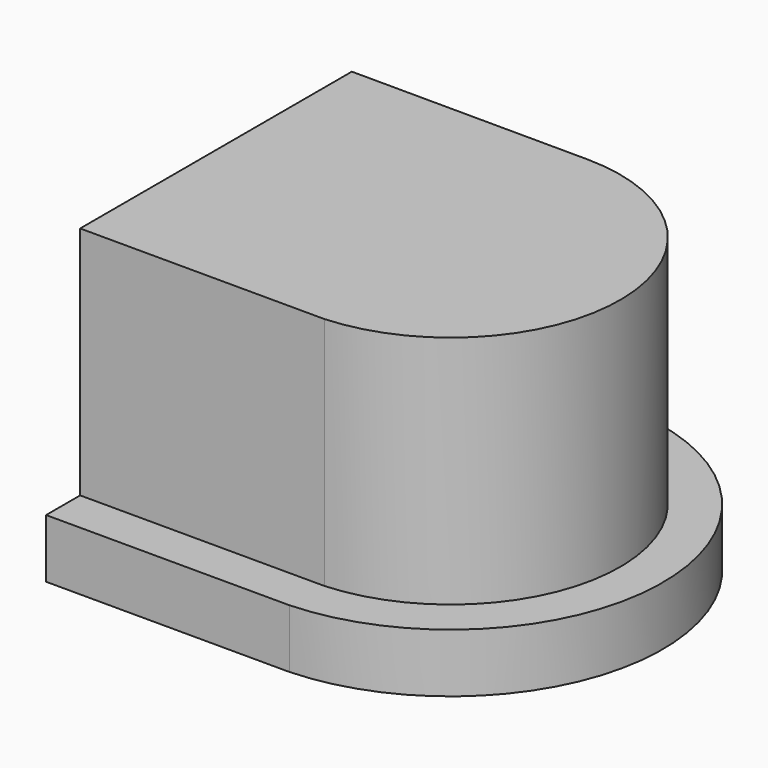
from build123d import *

# Parameters (mm, degrees)
F0_R     = 1.9
F1_DEPTH = 0.9
F2_DEPTH = 4.5
F3_DEPTH = 3.3


with BuildPart() as f1:
    # F0 (on Top) → F1 (new body)
    with BuildSketch(Plane.XY):
        with BuildLine():
            Line((-0.3, 2.6000520814), (-3.8955825641, 2.5999907979))
            ThreePointArc((-3.8955825641, 2.5999907979), (-6.5018304859, -0.0590002136), (-3.7776200645, -2.5969992302))
            Line((-3.7776200645, -2.5969992302), (-0.3, -2.6039384091))
            Line((-0.3, -2.6039384091), (-0.3, 2.6000520814))
        make_face()
        with Locations((-3.9025, 0)):
            Circle(F0_R, mode=Mode.SUBTRACT)
        with BuildLine():
            ThreePointArc((-3.7776200645, -2.5969992302), (-6.5018304859, -0.0590002136), (-3.8955825641, 2.5999907979))
            Line((-3.8955825641, 2.5999907979), (-0.3, 2.6000520814))
            Line((-0.3, 2.6000520814), (-0.3, 3.2423396327))
            Line((-0.3, 3.2423396327), (-3.8955825641, 3.2499926383))
            ThreePointArc((-3.8955825641, 3.2499926383), (-7.1524938186, 0.0063386972), (-3.9082599583, -3.2499948958))
            Line((-3.9082599583, -3.2499948958), (-0.3, -3.2563898065))
            Line((-0.3, -3.2563898065), (-0.3, -2.6039384091))
            Line((-0.3, -2.6039384091), (-3.7776200645, -2.5969992302))
        make_face()
        with Locations((-3.9025, 0)):
            Circle(F0_R)
    extrude(amount=F1_DEPTH)

    # F0 (on Top) → F2 (join)
    with BuildSketch(Plane.XY):
        with BuildLine():
            Line((-0.3, 2.6000520814), (-3.8955825641, 2.5999907979))
            ThreePointArc((-3.8955825641, 2.5999907979), (-6.5018304859, -0.0590002136), (-3.7776200645, -2.5969992302))
            Line((-3.7776200645, -2.5969992302), (-0.3, -2.6039384091))
            Line((-0.3, -2.6039384091), (-0.3, 2.6000520814))
        make_face()
        with Locations((-3.9025, 0)):
            Circle(F0_R, mode=Mode.SUBTRACT)
        with Locations((-3.9025, 0)):
            Circle(F0_R)
    extrude(amount=F2_DEPTH)


with BuildPart() as f1b:
    # F0 (on Top) → F1, piece 2 (new body)
    with BuildSketch(Plane.XY):
        with BuildLine():
            Line((0.3, 2.5976768642), (0.3, -2.6051356381))
            Line((0.3, -2.6051356381), (4.0469650256, -2.612612263))
            ThreePointArc((4.0469650256, -2.612612263), (6.5020444574, 0.0503066263), (3.913198154, 2.5833733141))
            Line((3.913198154, 2.5833733141), (0.3, 2.5976768642))
        make_face()
        with Locations((3.9029056272, -0.0166063135)):
            Circle(F0_R, mode=Mode.SUBTRACT)
        with BuildLine():
            Line((0.3, -2.6051356381), (0.3, -3.257453185))
            Line((0.3, -3.257453185), (4.0313724183, -3.2640662876))
            ThreePointArc((4.0313724183, -3.2640662876), (7.1522718987, 0.0475718266), (3.9030412728, 3.2333936837))
            Line((3.9030412728, 3.2333936837), (0.3, 3.2410625647))
            Line((0.3, 3.2410625647), (0.3, 2.5976768642))
            Line((0.3, 2.5976768642), (3.913198154, 2.5833733141))
            ThreePointArc((3.913198154, 2.5833733141), (6.5020444574, 0.0503066263), (4.0469650256, -2.612612263))
            Line((4.0469650256, -2.612612263), (0.3, -2.6051356381))
        make_face()
        with Locations((3.9029056272, -0.0166063135)):
            Circle(F0_R)
    extrude(amount=F1_DEPTH)

    # F0 (on Top) → F2, piece 2 (join)
    with BuildSketch(Plane.XY):
        with BuildLine():
            Line((0.3, 2.5976768642), (0.3, -2.6051356381))
            Line((0.3, -2.6051356381), (4.0469650256, -2.612612263))
            ThreePointArc((4.0469650256, -2.612612263), (6.5020444574, 0.0503066263), (3.913198154, 2.5833733141))
            Line((3.913198154, 2.5833733141), (0.3, 2.5976768642))
        make_face()
        with Locations((3.9029056272, -0.0166063135)):
            Circle(F0_R, mode=Mode.SUBTRACT)
        with Locations((3.9029056272, -0.0166063135)):
            Circle(F0_R)
    extrude(amount=F2_DEPTH)


with BuildPart() as f3_tool:
    # F0 (on Top) → F3 (new body)
    with BuildSketch(Plane.XY):
        with Locations((-3.9025, 0)):
            Circle(F0_R)
        with Locations((3.9029056272, -0.0166063135)):
            Circle(F0_R)
    extrude(amount=F3_DEPTH)


with BuildPart() as f1_1:
    add(f1.part)

    # F3: cut by f3_tool
    add(f3_tool.part, mode=Mode.SUBTRACT)


with BuildPart() as f1b_1:
    add(f1b.part)

    # F3: cut by f3_tool
    add(f3_tool.part, mode=Mode.SUBTRACT)


solid = f1b_1.part
